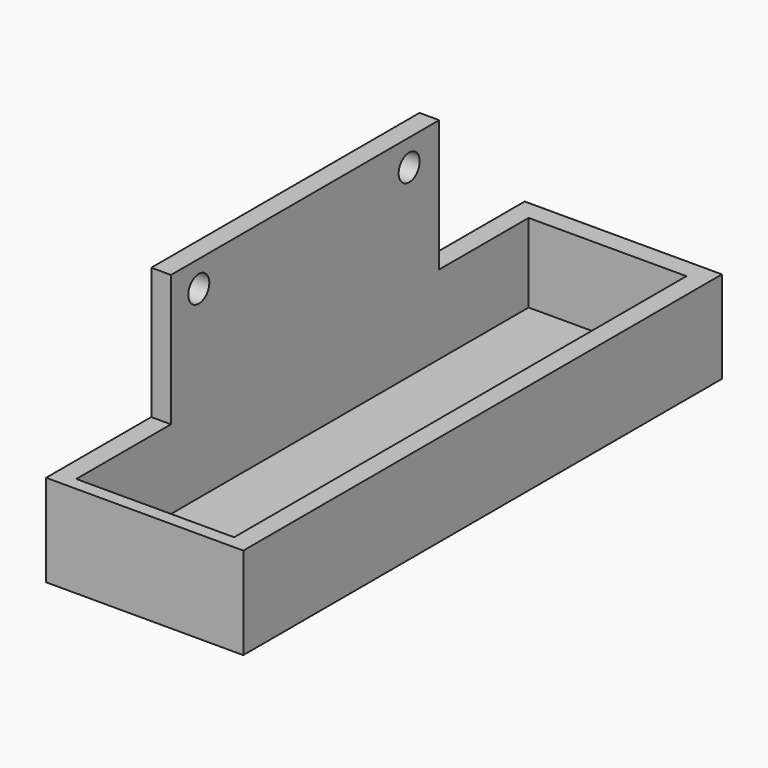
from build123d import *

# Parameters (mm, degrees)
F0_W     = 30
F0_H     = 91
F1_DEPTH = 2
F2_W     = 30
F2_H     = 91
F2_W_2   = 24
F2_H_2   = 86
F3_DEPTH = 32
F4_R     = 2
F5_DEPTH = 25
F7_DEPTH = 20


with BuildPart() as f1:
    # F0 (on Top) → F1 (new body)
    with BuildSketch(Plane.XY):
        with Locations((2.462509, 0.307451)):
            Rectangle(F0_W, F0_H)
    extrude(amount=F1_DEPTH)

    # F2 (on face) → F3 (join)
    with BuildSketch(Plane.XY.offset(2)):
        with Locations((2.462509, 0.307451)):
            Rectangle(F2_W, F2_H)
        with Locations((2.462509, -0.192549)):
            Rectangle(F2_W_2, F2_H_2, mode=Mode.SUBTRACT)
    extrude(amount=F3_DEPTH)

    # F4 (on face) → F5 (cut)
    with BuildSketch(Plane(origin=(-12.537491, 0, 0), x_dir=(0, -1, 0), z_dir=(-1, 0, 0))):
        with Locations((-20.091893, 30)):
            Circle(F4_R)
        with Locations((19.908107, 30)):
            Circle(F4_R)
    extrude(amount=-F5_DEPTH, mode=Mode.SUBTRACT)

    # F6 (on face) → F7 (cut)
    with BuildSketch(Plane.XY.offset(34)):
        Polygon((-12.537491, 45.807451), (-12.537491, 25.807451), (-9.537491, 25.807451), (-9.537491, 42.807451), (14.462509, 42.807451), (14.462509, -43.192549), (-9.537491, -43.192549), (-9.537491, -25.192549), (-12.537491, -25.192549), (-12.537491, -45.192549), (17.462509, -45.192549), (17.462509, 45.807451), align=None)
    extrude(amount=-F7_DEPTH, mode=Mode.SUBTRACT)


solid = f1.part
